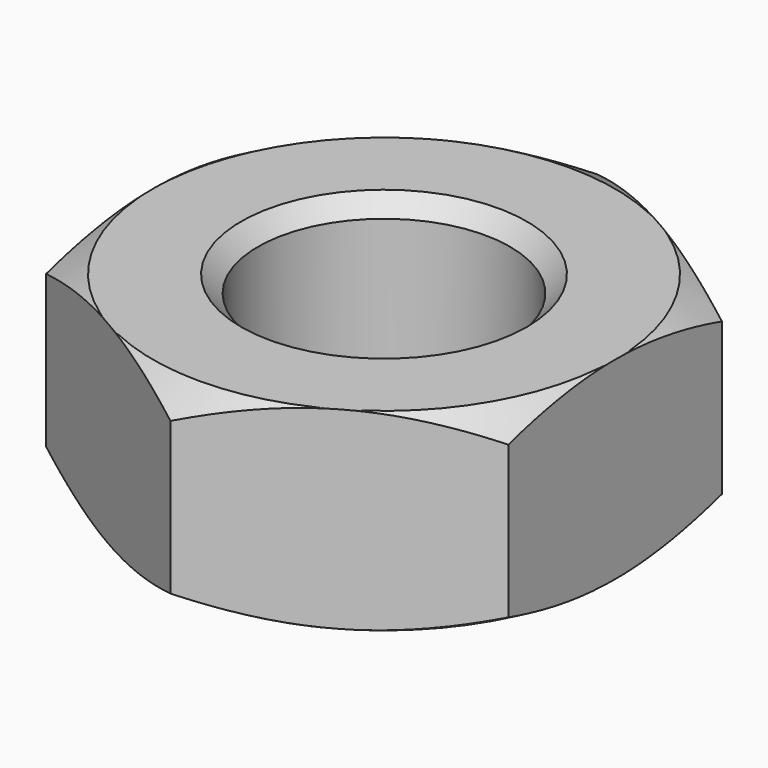
from build123d import *

# Parameters (mm, degrees)
SKETCH003_R  = 1.5
PAD001_DEPTH = 1.15
CHAMFER_SIZE = 0.2


with BuildPart() as part:
    # Sketch003 → Pad001 (new body, symmetric)
    with BuildSketch(Plane.XY):
        Polygon((2.75, -1.5877132403), (2.75, 1.5877132403), (0, 3.1754264805), (-2.75, 1.5877132403), (-2.75, -1.5877132403), (0, -3.1754264805), align=None)
        Circle(SKETCH003_R, mode=Mode.SUBTRACT)
    extrude(amount=PAD001_DEPTH, both=True)

    # Sketch004 → Groove (revolve, cut)
    with BuildSketch(Plane.YZ):
        Polygon((-2.75, 1.15), (-3.5, 0.7169872981), (-3.5, 1.15), align=None)
        Polygon((-2.75, -1.15), (-3.5, -0.7169872981), (-3.5, -1.15), align=None)
    revolve(axis=Axis((0, 0, 0), (0, 0, 1)), mode=Mode.SUBTRACT)

    # Chamfer
    chamfer_edges = [part.edges().sort_by_distance(p)[0] for p in [
        (-1.5, 0, 1.15),
        (-1.5, 0, -1.15),
    ]]
    chamfer(chamfer_edges, length=CHAMFER_SIZE)


solid = part.part
